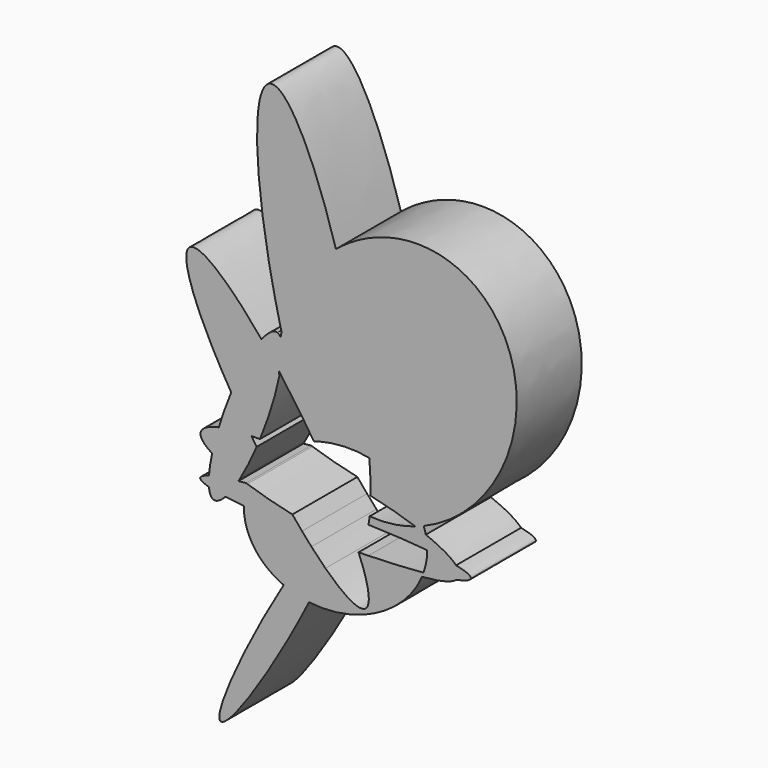
from build123d import *

# Parameters (mm, degrees)
F1_DEPTH = 25.4


with BuildPart() as f1:
    # F0 (on Front) → F1 (new body)
    with BuildSketch(Plane.XZ):
        with BuildLine():
            add(Edge.make_bspline(
                [(0, 0), (-2.0419692458, 3.2120700929), (-4.1965965873, 6.3852408232)],
                knots=[1.4417887341, 1.4417887341, 1.4417887341, 1.5975763742, 1.5975763742, 1.5975763742], degree=2, weights=[1, 0.99696781, 1]))
            add(Edge.make_bspline(
                [(17.3586450546, 1.0512714929), (8.87230184, 2.7763740784), (0, 0)],
                knots=[4.0956546377, 4.0956546377, 4.0956546377, 4.7123889804, 4.7123889804, 4.7123889804], degree=2, weights=[1, 0.9528304086, 1]))
            add(Edge.make_bspline(
                [(17.3586450546, 1.0512714929), (15.4303166317, 26.1916327111), (6.9015758323, 55.1276736975)],
                knots=[0.9115688442, 0.9115688442, 0.9115688442, 1.8731257593, 1.8731257593, 1.8731257593], degree=2, weights=[1, 0.8866351786, 1]))
            add(Edge.make_bspline(
                [(6.9015758323, 55.1276736975), (-6.7207968942, 43.9221974325), (-10.1084997618, 26.8071951101)],
                knots=[4.3544529117, 4.3544529117, 4.3544529117, 5.1646581192, 5.1646581192, 5.1646581192], degree=2, weights=[1, 0.9190619645, 1]))
            add(Edge.make_bspline(
                [(-10.1084997618, 26.8071951101), (-7.3992491307, 15.9592015291), (-4.1965965873, 6.3852408232)],
                knots=[4.8081501047, 4.8081501047, 4.8081501047, 5.1754027833, 5.1754027833, 5.1754027833], degree=2, weights=[1, 0.9831880033, 1]))
        make_face()
        with BuildLine():
            add(Edge.make_bspline(
                [(17.3586450546, 1.0512714929), (15.4303166317, 26.1916327111), (6.9015758323, 55.1276736975)],
                knots=[0.9115688442, 0.9115688442, 0.9115688442, 1.8731257593, 1.8731257593, 1.8731257593], degree=2, weights=[1, 0.8866351786, 1]))
            add(Edge.make_bspline(
                [(34.3481530709, -12.109768865), (30.4814136558, -1.616322955), (17.3586450546, 1.0512714929)],
                knots=[3.1803107646, 3.1803107646, 3.1803107646, 4.0956546377, 4.0956546377, 4.0956546377], degree=2, weights=[1, 0.8970836077, 1]))
            add(Edge.make_bspline(
                [(34.3481530709, -12.109768865), (77.0928733554, 5.6366252267), (60.708716238, 45.7738275282), (44.3245591207, 85.9110298297), (6.9015758323, 55.1276736975)],
                knots=[0.8866052756, 0.8866052756, 0.8866052756, 2.6205290936, 2.6205290936, 4.3544529117, 4.3544529117, 4.3544529117], degree=2, weights=[1, 0.6471456686, 1, 0.6471456686, 1]))
        make_face()
        with BuildLine():
            add(Edge.make_bspline(
                [(34.3481530709, -12.109768865), (30.4814136558, -1.616322955), (17.3586450546, 1.0512714929)],
                knots=[3.1803107646, 3.1803107646, 3.1803107646, 4.0956546377, 4.0956546377, 4.0956546377], degree=2, weights=[1, 0.8970836077, 1]))
            add(Edge.make_bspline(
                [(17.7426625372, -9.2078295502), (17.7936666461, -4.6202727411), (17.3586450546, 1.0512714929)],
                knots=[0.6773049146, 0.6773049146, 0.6773049146, 0.9115688442, 0.9115688442, 0.9115688442], degree=2, weights=[1, 0.993147891, 1]))
            add(Edge.make_bspline(
                [(31.7286304994, -13.0936231067), (25.5484092441, -10.9651560749), (17.7426625372, -9.2078295502)],
                knots=[4.0264719346, 4.0264719346, 4.0264719346, 4.4273357701, 4.4273357701, 4.4273357701], degree=2, weights=[1, 0.9799806776, 1]))
            add(Edge.make_bspline(
                [(31.7286304994, -13.0936231067), (33.0471510413, -12.6499079647), (34.3481530709, -12.109768865)],
                knots=[0.8149247531, 0.8149247531, 0.8149247531, 0.8866052756, 0.8866052756, 0.8866052756], degree=2, weights=[1, 0.9993578066, 1]))
        make_face()
        with BuildLine():
            add(Edge.make_bspline(
                [(-4.1965965873, 6.3852408232), (-7.3460625218, 11.0235339179), (-10.5982844988, 15.378538468)],
                knots=[1.5975763742, 1.5975763742, 1.5975763742, 1.8247738786, 1.8247738786, 1.8247738786], degree=2, weights=[1, 0.9935545975, 1]))
            add(Edge.make_bspline(
                [(-10.1084997618, 26.8071951101), (-7.3992491307, 15.9592015291), (-4.1965965873, 6.3852408232)],
                knots=[4.8081501047, 4.8081501047, 4.8081501047, 5.1754027833, 5.1754027833, 5.1754027833], degree=2, weights=[1, 0.9831880033, 1]))
            add(Edge.make_bspline(
                [(-10.1084997618, 26.8071951101), (-10.2671483449, 26.0056871339), (-10.3963750685, 25.2032869821)],
                knots=[5.1646581192, 5.1646581192, 5.1646581192, 5.2048167174, 5.2048167174, 5.2048167174], degree=2, weights=[1, 0.9997984176, 1]))
            add(Edge.make_bspline(
                [(-10.5982844988, 15.378538468), (-9.2423722214, 22.6344240275), (-10.3963750685, 25.2032869821)],
                knots=[5.4180875139, 5.4180875139, 5.4180875139, 6.0732892326, 6.0732892326, 6.0732892326], degree=2, weights=[1, 0.9468170449, 1]))
        make_face()
        with BuildLine():
            add(Edge.make_bspline(
                [(34.9964238351, -14.2943257255), (34.7427744271, -13.1806809206), (34.3481530709, -12.109768865)],
                knots=[3.0798600872, 3.0798600872, 3.0798600872, 3.1803107646, 3.1803107646, 3.1803107646], degree=2, weights=[1, 0.9987389728, 1]))
            add(Edge.make_bspline(
                [(31.7286304994, -13.0936231067), (33.0471510413, -12.6499079647), (34.3481530709, -12.109768865)],
                knots=[0.8149247531, 0.8149247531, 0.8149247531, 0.8866052756, 0.8866052756, 0.8866052756], degree=2, weights=[1, 0.9993578066, 1]))
            add(Edge.make_bspline(
                [(34.9964238351, -14.2943257255), (33.4535804002, -13.6876955263), (31.7286304994, -13.0936231067)],
                knots=[3.913186182, 3.913186182, 3.913186182, 4.0264719346, 4.0264719346, 4.0264719346], degree=2, weights=[1, 0.9983962211, 1]))
        make_face()
        with BuildLine():
            add(Edge.make_bspline(
                [(6.9015758323, 55.1276736975), (-6.7207968942, 43.9221974325), (-10.1084997618, 26.8071951101)],
                knots=[4.3544529117, 4.3544529117, 4.3544529117, 5.1646581192, 5.1646581192, 5.1646581192], degree=2, weights=[1, 0.9190619645, 1]))
            add(Edge.make_bspline(
                [(6.9015758323, 55.1276736975), (-7.8422792653, 105.1501571375), (-15.5523989474, 92.3133958805), (-23.2625186295, 79.4766346236), (-10.1084997618, 26.8071951101)],
                knots=[1.8731257593, 1.8731257593, 1.8731257593, 3.340637932, 3.340637932, 4.8081501047, 4.8081501047, 4.8081501047], degree=2, weights=[1, 0.7426643318, 1, 0.7426643318, 1]))
        make_face()
        with BuildLine():
            add(Edge.make_bspline(
                [(-10.5982844988, 15.378538468), (-10.7391049412, 15.5671091351), (-10.8799549354, 15.7549200129)],
                knots=[1.8247738786, 1.8247738786, 1.8247738786, 1.8346539331, 1.8346539331, 1.8346539331], degree=2, weights=[1, 0.9999877981, 1]))
            add(Edge.make_bspline(
                [(-10.5982844988, 15.378538468), (-9.2423722214, 22.6344240275), (-10.3963750685, 25.2032869821)],
                knots=[5.4180875139, 5.4180875139, 5.4180875139, 6.0732892326, 6.0732892326, 6.0732892326], degree=2, weights=[1, 0.9468170449, 1]))
            add(Edge.make_bspline(
                [(-10.3963750685, 25.2032869821), (-11.1674260796, 20.4156437521), (-10.8799549354, 15.7549200129)],
                knots=[5.2048167174, 5.2048167174, 5.2048167174, 5.443324233, 5.443324233, 5.443324233], degree=2, weights=[1, 0.9928976937, 1]))
        make_face()
        with BuildLine():
            add(Edge.make_bspline(
                [(-16.8353520542, -4.8721829772), (-12.5740677186, 5.5720717442), (-10.7783968723, 14.4531901174)],
                knots=[4.6076319317, 4.6076319317, 4.6076319317, 5.3753901458, 5.3753901458, 5.3753901458], degree=2, weights=[1, 0.927218812, 1]))
            add(Edge.make_bspline(
                [(-10.8799549354, 15.7549200129), (-10.8396393051, 15.1012891384), (-10.7783968723, 14.4531901174)],
                knots=[5.443324233, 5.443324233, 5.443324233, 5.4769293969, 5.4769293969, 5.4769293969], degree=2, weights=[1, 0.9998588399, 1]))
            add(Edge.make_bspline(
                [(-10.8799549354, 15.7549200129), (-13.634853925, 19.428331579), (-16.3473842546, 22.7423306624)],
                knots=[1.8346539331, 1.8346539331, 1.8346539331, 2.0273024281, 2.0273024281, 2.0273024281], degree=2, weights=[1, 0.9953644056, 1]))
            add(Edge.make_bspline(
                [(-16.3473842546, 22.7423306624), (-21.0242438786, 16.7490173833), (-25.8164739142, 5.054448316)],
                knots=[0.6084845026, 0.6084845026, 0.6084845026, 1.4589856626, 1.4589856626, 1.4589856626], degree=2, weights=[1, 0.910935385, 1]))
            add(Edge.make_bspline(
                [(-25.8164739142, 5.054448316), (-22.8313529579, 0.0924912574), (-19.5120625263, -4.8721565272)],
                knots=[4.4602498452, 4.4602498452, 4.4602498452, 4.7020507527, 4.7020507527, 4.7020507527], degree=2, weights=[1, 0.9927004381, 1]))
            add(Edge.make_bspline(
                [(-16.8353520542, -4.8721829772), (-18.2116594709, -4.8545570863), (-19.5120625263, -4.8721565272)],
                knots=[5.3177910764, 5.3177910764, 5.3177910764, 5.3986084923, 5.3986084923, 5.3986084923], degree=2, weights=[1, 0.9991836792, 1]))
        make_face()
        with BuildLine():
            add(Edge.make_bspline(
                [(44.4441439733, -19.6635569431), (42.0520320001, -17.0685184203), (34.9964238351, -14.2943257255)],
                knots=[3.4057390466, 3.4057390466, 3.4057390466, 3.913186182, 3.913186182, 3.913186182], degree=2, weights=[1, 0.9679844815, 1]))
            add(Edge.make_bspline(
                [(35.4436174447, -18.4315391388), (35.4575104597, -16.3187212406), (34.9964238351, -14.2943257255)],
                knots=[2.8976121851, 2.8976121851, 2.8976121851, 3.0798600872, 3.0798600872, 3.0798600872], degree=2, weights=[1, 0.9958510849, 1]))
            add(Edge.make_bspline(
                [(44.4441439733, -19.6635569431), (41.0059085952, -18.9639638338), (35.4436174447, -18.4315391388)],
                knots=[3.6132907881, 3.6132907881, 3.6132907881, 3.9674309518, 3.9674309518, 3.9674309518], degree=2, weights=[1, 0.9843640112, 1]))
        make_face()
        with BuildLine():
            add(Edge.make_bspline(
                [(35.4436174447, -18.4315391388), (35.4575104597, -16.3187212406), (34.9964238351, -14.2943257255)],
                knots=[2.8976121851, 2.8976121851, 2.8976121851, 3.0798600872, 3.0798600872, 3.0798600872], degree=2, weights=[1, 0.9958510849, 1]))
            add(Edge.make_bspline(
                [(34.9964238351, -14.2943257255), (33.4535804002, -13.6876955263), (31.7286304994, -13.0936231067)],
                knots=[3.913186182, 3.913186182, 3.913186182, 4.0264719346, 4.0264719346, 4.0264719346], degree=2, weights=[1, 0.9983962211, 1]))
            add(Edge.make_bspline(
                [(17.4364875247, -14.953859189), (24.519427182, -15.519700344), (31.7286304994, -13.0936231067)],
                knots=[0.4277436077, 0.4277436077, 0.4277436077, 0.8149247531, 0.8149247531, 0.8149247531], degree=2, weights=[1, 0.9813197949, 1]))
            add(Edge.make_bspline(
                [(17.0972237944, -17.4017275184), (17.2973557323, -16.2683084999), (17.4364875247, -14.953859189)],
                knots=[0.4300995875, 0.4300995875, 0.4300995875, 0.5141071314, 0.5141071314, 0.5141071314], degree=2, weights=[1, 0.9991179713, 1]))
            add(Edge.make_bspline(
                [(35.4436174447, -18.4315391388), (27.5329365652, -17.6743256559), (17.0972237944, -17.4017275184)],
                knots=[3.9674309518, 3.9674309518, 3.9674309518, 4.4658388275, 4.4658388275, 4.4658388275], degree=2, weights=[1, 0.9691090636, 1]))
        make_face()
        with BuildLine():
            add(Edge.make_bspline(
                [(-10.3963750685, 25.2032869821), (-11.1674260796, 20.4156437521), (-10.8799549354, 15.7549200129)],
                knots=[5.2048167174, 5.2048167174, 5.2048167174, 5.443324233, 5.443324233, 5.443324233], degree=2, weights=[1, 0.9928976937, 1]))
            add(Edge.make_bspline(
                [(-10.3963750685, 25.2032869821), (-10.7540570228, 25.9995033208), (-11.3445818424, 26.2250974774)],
                knots=[6.0732892326, 6.0732892326, 6.0732892326, 6.2831853072, 6.2831853072, 6.2831853072], degree=2, weights=[1, 0.9944980075, 1]))
            add(Edge.make_bspline(
                [(-11.3445818424, 26.2250974774), (-13.1048623543, 26.897565398), (-16.3473842546, 22.7423306624)],
                knots=[0, 0, 0, 0.6084845026, 0.6084845026, 0.6084845026], degree=2, weights=[1, 0.9540742255, 1]))
            add(Edge.make_bspline(
                [(-10.8799549354, 15.7549200129), (-13.634853925, 19.428331579), (-16.3473842546, 22.7423306624)],
                knots=[1.8346539331, 1.8346539331, 1.8346539331, 2.0273024281, 2.0273024281, 2.0273024281], degree=2, weights=[1, 0.9953644056, 1]))
        make_face()
        with BuildLine():
            add(Edge.make_bspline(
                [(44.4441439733, -19.6635569431), (41.0059085952, -18.9639638338), (35.4436174447, -18.4315391388)],
                knots=[3.6132907881, 3.6132907881, 3.6132907881, 3.9674309518, 3.9674309518, 3.9674309518], degree=2, weights=[1, 0.9843640112, 1]))
            add(Edge.make_bspline(
                [(34.2693182662, -24.9924245919), (35.4220394417, -21.7130724045), (35.4436174447, -18.4315391388)],
                knots=[2.6156499376, 2.6156499376, 2.6156499376, 2.8976121851, 2.8976121851, 2.8976121851], degree=2, weights=[1, 0.9900786106, 1]))
            add(Edge.make_bspline(
                [(34.2693182662, -24.9924245919), (40.6903214961, -24.4221223889), (44.5060968032, -23.6394655455)],
                knots=[2.278603824, 2.278603824, 2.278603824, 2.6731291375, 2.6731291375, 2.6731291375], degree=2, weights=[1, 0.9806067315, 1]))
            add(Edge.make_bspline(
                [(44.5060968032, -23.6394655455), (46.5708280281, -21.9706508876), (44.4441439733, -19.6635569431)],
                knots=[2.9525787792, 2.9525787792, 2.9525787792, 3.4057390466, 3.4057390466, 3.4057390466], degree=2, weights=[1, 0.9744403524, 1]))
        make_face()
        with BuildLine():
            add(Edge.make_bspline(
                [(44.5060968032, -23.6394655455), (54.2061589671, -21.6498777361), (44.4441439733, -19.6635569431)],
                knots=[2.6731291375, 2.6731291375, 2.6731291375, 3.6132907881, 3.6132907881, 3.6132907881], degree=2, weights=[1, 0.8915316806, 1]))
            add(Edge.make_bspline(
                [(44.5060968032, -23.6394655455), (46.5708280281, -21.9706508876), (44.4441439733, -19.6635569431)],
                knots=[2.9525787792, 2.9525787792, 2.9525787792, 3.4057390466, 3.4057390466, 3.4057390466], degree=2, weights=[1, 0.9744403524, 1]))
        make_face()
        with BuildLine():
            add(Edge.make_bspline(
                [(-16.3473842546, 22.7423306624), (-21.0242438786, 16.7490173833), (-25.8164739142, 5.054448316)],
                knots=[0.6084845026, 0.6084845026, 0.6084845026, 1.4589856626, 1.4589856626, 1.4589856626], degree=2, weights=[1, 0.910935385, 1]))
            add(Edge.make_bspline(
                [(-16.3473842546, 22.7423306624), (-92.2344269544, 115.456350189), (-25.8164739142, 5.054448316)],
                knots=[2.0273024281, 2.0273024281, 2.0273024281, 4.4602498452, 4.4602498452, 4.4602498452], degree=2, weights=[1, 0.3469551409, 1]))
        make_face()
        with BuildLine():
            add(Edge.make_bspline(
                [(-23.0388032278, -17.7057134343), (-20.4002747943, -13.1839104368), (-17.8603604999, -7.3118968233)],
                knots=[4.0557463312, 4.0557463312, 4.0557463312, 4.512278861, 4.512278861, 4.512278861], degree=2, weights=[1, 0.9740601841, 1]))
            add(Edge.make_bspline(
                [(-19.5120625263, -4.8721565272), (-18.692812925, -6.097504475), (-17.8603604999, -7.3118968233)],
                knots=[4.7020507527, 4.7020507527, 4.7020507527, 4.7620052899, 4.7620052899, 4.7620052899], degree=2, weights=[1, 0.9995507153, 1]))
            add(Edge.make_bspline(
                [(-19.5120625263, -4.8721565272), (-25.7143836344, -4.9560977202), (-29.7111985608, -5.8066144971)],
                knots=[5.3986084923, 5.3986084923, 5.3986084923, 5.7796035474, 5.7796035474, 5.7796035474], degree=2, weights=[1, 0.9819101511, 1]))
            add(Edge.make_bspline(
                [(-29.7111985608, -5.8066144971), (-30.9982211567, -9.9976236259), (-31.7846885344, -13.669241013)],
                knots=[1.8747922047, 1.8747922047, 1.8747922047, 2.198544222, 2.198544222, 2.198544222], degree=2, weights=[1, 0.986926664, 1]))
            add(Edge.make_bspline(
                [(-31.7846885344, -13.669241013), (-28.5899223543, -15.6889539958), (-23.0388032278, -17.7057134343)],
                knots=[0.4614090078, 0.4614090078, 0.4614090078, 0.837954145, 0.837954145, 0.837954145], degree=2, weights=[1, 0.9823290106, 1]))
        make_face()
        with BuildLine():
            add(Edge.make_bspline(
                [(-19.5120625263, -4.8721565272), (-25.7143836344, -4.9560977202), (-29.7111985608, -5.8066144971)],
                knots=[5.3986084923, 5.3986084923, 5.3986084923, 5.7796035474, 5.7796035474, 5.7796035474], degree=2, weights=[1, 0.9819101511, 1]))
            add(Edge.make_bspline(
                [(-25.8164739142, 5.054448316), (-22.8313529579, 0.0924912574), (-19.5120625263, -4.8721565272)],
                knots=[4.4602498452, 4.4602498452, 4.4602498452, 4.7020507527, 4.7020507527, 4.7020507527], degree=2, weights=[1, 0.9927004381, 1]))
            add(Edge.make_bspline(
                [(-25.8164739142, 5.054448316), (-28.0486688583, -0.3928189795), (-29.7111985608, -5.8066144971)],
                knots=[1.4589856626, 1.4589856626, 1.4589856626, 1.8747922047, 1.8747922047, 1.8747922047], degree=2, weights=[1, 0.9784658485, 1]))
        make_face()
        with BuildLine():
            add(Edge.make_bspline(
                [(34.2693182662, -24.9924245919), (40.6903214961, -24.4221223889), (44.5060968032, -23.6394655455)],
                knots=[2.278603824, 2.278603824, 2.278603824, 2.6731291375, 2.6731291375, 2.6731291375], degree=2, weights=[1, 0.9806067315, 1]))
            add(Edge.make_bspline(
                [(33.7803264966, -26.2598079569), (34.0455109476, -25.6291293177), (34.2693182662, -24.9924245919)],
                knots=[2.5605537164, 2.5605537164, 2.5605537164, 2.6156499376, 2.6156499376, 2.6156499376], degree=2, weights=[1, 0.9996205748, 1]))
            add(Edge.make_bspline(
                [(33.7803264966, -26.2598079569), (41.9408016183, -25.7128599684), (44.5060968032, -23.6394655455)],
                knots=[2.3946569283, 2.3946569283, 2.3946569283, 2.9525787792, 2.9525787792, 2.9525787792], degree=2, weights=[1, 0.9613420736, 1]))
        make_face()
        with BuildLine():
            add(Edge.make_bspline(
                [(33.7803264966, -26.2598079569), (34.0455109476, -25.6291293177), (34.2693182662, -24.9924245919)],
                knots=[2.5605537164, 2.5605537164, 2.5605537164, 2.6156499376, 2.6156499376, 2.6156499376], degree=2, weights=[1, 0.9996205748, 1]))
            add(Edge.make_bspline(
                [(17.0538843812, -25.9150808869), (26.7077216575, -25.6640322909), (34.2693182662, -24.9924245919)],
                knots=[1.8162897084, 1.8162897084, 1.8162897084, 2.278603824, 2.278603824, 2.278603824], degree=2, weights=[1, 0.9734019601, 1]))
            add(Edge.make_bspline(
                [(17.0538843812, -25.9150808869), (26.6818415222, -26.7355770783), (33.7803264966, -26.2598079569)],
                knots=[1.906292002, 1.906292002, 1.906292002, 2.3946569283, 2.3946569283, 2.3946569283], degree=2, weights=[1, 0.9703352995, 1]))
        make_face()
        with BuildLine():
            add(Edge.make_bspline(
                [(-20.7739513892, -18.4939974229), (-14.5008973547, -20.5878580004), (-6.7053052662, -22.2968065034)],
                knots=[0.9130442864, 0.9130442864, 0.9130442864, 1.3103694753, 1.3103694753, 1.3103694753], degree=2, weights=[1, 0.9803314027, 1]))
            add(Edge.make_bspline(
                [(-20.7739513892, -18.4939974229), (-21.8680090391, -21.6896646453), (-21.8890145833, -24.8841396962)],
                knots=[5.7646280853, 5.7646280853, 5.7646280853, 6.0392048387, 6.0392048387, 6.0392048387], degree=2, weights=[1, 0.9905907436, 1]))
            add(Edge.make_bspline(
                [(-21.8890145833, -24.8841396962), (-14.0365313601, -25.6357824765), (-3.6868290749, -25.9101563494)],
                knots=[0.8258382982, 0.8258382982, 0.8258382982, 1.3207278271, 1.3207278271, 1.3207278271], degree=2, weights=[1, 0.9695414333, 1]))
            add(Edge.make_bspline(
                [(-6.7053052662, -22.2968065034), (-5.1779479937, -24.174512442), (-3.6868290749, -25.9101563494)],
                knots=[5.1559604442, 5.1559604442, 5.1559604442, 5.2644250528, 5.2644250528, 5.2644250528], degree=2, weights=[1, 0.998529789, 1]))
        make_face()
        with BuildLine():
            add(Edge.make_bspline(
                [(-20.7739513892, -18.4939974229), (-21.8680090391, -21.6896646453), (-21.8890145833, -24.8841396962)],
                knots=[5.7646280853, 5.7646280853, 5.7646280853, 6.0392048387, 6.0392048387, 6.0392048387], degree=2, weights=[1, 0.9905907436, 1]))
            add(Edge.make_bspline(
                [(-21.1620600226, -18.3635533745), (-20.9690251753, -18.428884432), (-20.7739513892, -18.4939974229)],
                knots=[0.900523635, 0.900523635, 0.900523635, 0.9130442864, 0.9130442864, 0.9130442864], degree=2, weights=[1, 0.9999804042, 1]))
            add(Edge.make_bspline(
                [(-21.1620600226, -18.3635533745), (-22.4118456022, -18.4777433695), (-23.571252853, -18.6017798929)],
                knots=[5.4342050608, 5.4342050608, 5.4342050608, 5.5129184426, 5.5129184426, 5.5129184426], degree=2, weights=[1, 0.9992256254, 1]))
            add(Edge.make_bspline(
                [(-27.6228268304, -24.2099699298), (-25.7563008525, -22.211078321), (-23.571252853, -18.6017798929)],
                knots=[3.625544764, 3.625544764, 3.625544764, 4.0086848584, 4.0086848584, 4.0086848584], degree=2, weights=[1, 0.9817065075, 1]))
            add(Edge.make_bspline(
                [(-27.6228268304, -24.2099699298), (-25.0904027664, -24.5777015611), (-21.8890145833, -24.8841396962)],
                knots=[0.6205786005, 0.6205786005, 0.6205786005, 0.8258382982, 0.8258382982, 0.8258382982], degree=2, weights=[1, 0.994738178, 1]))
        make_face()
        with BuildLine():
            add(Edge.make_bspline(
                [(-23.571252853, -18.6017798929), (-23.306103632, -18.163802024), (-23.0388032278, -17.7057134343)],
                knots=[4.0086848584, 4.0086848584, 4.0086848584, 4.0557463312, 4.0557463312, 4.0557463312], degree=2, weights=[1, 0.999723165, 1]))
            add(Edge.make_bspline(
                [(-31.7846885344, -13.669241013), (-28.5899223543, -15.6889539958), (-23.0388032278, -17.7057134343)],
                knots=[0.4614090078, 0.4614090078, 0.4614090078, 0.837954145, 0.837954145, 0.837954145], degree=2, weights=[1, 0.9823290106, 1]))
            add(Edge.make_bspline(
                [(-31.7846885344, -13.669241013), (-32.5703160551, -17.3369375339), (-32.7749262631, -20.1058265828)],
                knots=[2.198544222, 2.198544222, 2.198544222, 2.5219565079, 2.5219565079, 2.5219565079], degree=2, weights=[1, 0.986954027, 1]))
            add(Edge.make_bspline(
                [(-23.571252853, -18.6017798929), (-29.6751009685, -19.2547860728), (-32.7749262631, -20.1058265828)],
                knots=[5.5129184426, 5.5129184426, 5.5129184426, 5.9217384523, 5.9217384523, 5.9217384523], degree=2, weights=[1, 0.9791809177, 1]))
        make_face()
        with BuildLine():
            add(Edge.make_bspline(
                [(-29.7111985608, -5.8066144971), (-30.9982211567, -9.9976236259), (-31.7846885344, -13.669241013)],
                knots=[1.8747922047, 1.8747922047, 1.8747922047, 2.198544222, 2.198544222, 2.198544222], degree=2, weights=[1, 0.986926664, 1]))
            add(Edge.make_bspline(
                [(-29.7111985608, -5.8066144971), (-35.0431043159, -6.9412367852), (-35.3986231766, -9.1565694147)],
                knots=[5.7796035474, 5.7796035474, 5.7796035474, 6.2831853072, 6.2831853072, 6.2831853072], degree=2, weights=[1, 0.9684677974, 1]))
            add(Edge.make_bspline(
                [(-35.3986231766, -9.1565694147), (-35.7232353351, -11.1793141581), (-31.7846885344, -13.669241013)],
                knots=[0, 0, 0, 0.4614090078, 0.4614090078, 0.4614090078], degree=2, weights=[1, 0.9735055423, 1]))
        make_face()
        with BuildLine():
            add(Edge.make_bspline(
                [(-1.5104979003, -44.743930426), (24.6175207559, -48.0513792028), (33.7803264966, -26.2598079569)],
                knots=[1.0388239169, 1.0388239169, 1.0388239169, 2.5605537164, 2.5605537164, 2.5605537164], degree=2, weights=[1, 0.7242398917, 1]))
            add(Edge.make_bspline(
                [(17.0538843812, -25.9150808869), (26.6818415222, -26.7355770783), (33.7803264966, -26.2598079569)],
                knots=[1.906292002, 1.906292002, 1.906292002, 2.3946569283, 2.3946569283, 2.3946569283], degree=2, weights=[1, 0.9703352995, 1]))
            add(Edge.make_bspline(
                [(13.9706182119, -25.98269624), (15.5243972849, -25.9548552872), (17.0538843812, -25.9150808869)],
                knots=[1.7417453053, 1.7417453053, 1.7417453053, 1.8162897084, 1.8162897084, 1.8162897084], degree=2, weights=[1, 0.9993054719, 1]))
            add(Edge.make_bspline(
                [(16.0592347383, -40.8111065626), (19.2014715106, -38.7011593592), (13.9706182119, -25.98269624)],
                knots=[0, 0, 0, 0.7584741556, 0.7584741556, 0.7584741556], degree=2, weights=[1, 0.9289473487, 1]))
            add(Edge.make_bspline(
                [(3.6266056857, -33.7569650345), (13.0105761168, -42.8582179673), (16.0592347383, -40.8111065626)],
                knots=[5.545278009, 5.545278009, 5.545278009, 6.2831853072, 6.2831853072, 6.2831853072], degree=2, weights=[1, 0.9327052118, 1]))
            add(Edge.make_bspline(
                [(-1.5104979003, -44.743930426), (1.5223146331, -38.6890097643), (3.6266056857, -33.7569650345)],
                knots=[5.0665742006, 5.0665742006, 5.0665742006, 5.4510357716, 5.4510357716, 5.4510357716], degree=2, weights=[1, 0.9815804884, 1]))
        make_face()
        with BuildLine():
            add(Edge.make_bspline(
                [(-21.8890145833, -24.8841396962), (-14.0365313601, -25.6357824765), (-3.6868290749, -25.9101563494)],
                knots=[0.8258382982, 0.8258382982, 0.8258382982, 1.3207278271, 1.3207278271, 1.3207278271], degree=2, weights=[1, 0.9695414333, 1]))
            add(Edge.make_bspline(
                [(-21.8890145833, -24.8841396962), (-21.9696048638, -37.1401249709), (-9.4397222006, -42.6044596563)],
                knots=[6.0392048387, 6.0392048387, 6.0392048387, 7.0140120075, 7.0140120075, 7.0140120075], degree=2, weights=[1, 0.8835518236, 1]))
            add(Edge.make_bspline(
                [(-0.7479524071, -29.2303670475), (-4.6791344801, -34.683949446), (-9.4397222006, -42.6044596563)],
                knots=[0.7628706142, 0.7628706142, 0.7628706142, 1.2728517826, 1.2728517826, 1.2728517826], degree=2, weights=[1, 0.9676656707, 1]))
            add(Edge.make_bspline(
                [(-3.6868290749, -25.9101563494), (-2.1902980411, -27.6520998914), (-0.7479524071, -29.2303670475)],
                knots=[5.2644250528, 5.2644250528, 5.2644250528, 5.3732825653, 5.3732825653, 5.3732825653], degree=2, weights=[1, 0.9985191209, 1]))
        make_face()
        with BuildLine():
            add(Edge.make_bspline(
                [(-27.6228268304, -24.2099699298), (-25.7563008525, -22.211078321), (-23.571252853, -18.6017798929)],
                knots=[3.625544764, 3.625544764, 3.625544764, 4.0086848584, 4.0086848584, 4.0086848584], degree=2, weights=[1, 0.9817065075, 1]))
            add(Edge.make_bspline(
                [(-23.571252853, -18.6017798929), (-29.6751009685, -19.2547860728), (-32.7749262631, -20.1058265828)],
                knots=[5.5129184426, 5.5129184426, 5.5129184426, 5.9217384523, 5.9217384523, 5.9217384523], degree=2, weights=[1, 0.9791809177, 1]))
            add(Edge.make_bspline(
                [(-32.7749262631, -20.1058265828), (-32.9073465941, -21.897805623), (-32.7852574403, -23.2070129148)],
                knots=[2.5219565079, 2.5219565079, 2.5219565079, 2.7323279385, 2.7323279385, 2.7323279385], degree=2, weights=[1, 0.9944730813, 1]))
            add(Edge.make_bspline(
                [(-32.7852574403, -23.2070129148), (-30.8352677141, -23.7434935037), (-27.6228268304, -24.2099699298)],
                knots=[0.3607553096, 0.3607553096, 0.3607553096, 0.6205786005, 0.6205786005, 0.6205786005], degree=2, weights=[1, 0.9915733436, 1]))
        make_face()
        with BuildLine():
            add(Edge.make_bspline(
                [(-9.4397222006, -42.6044596563), (-34.8942230987, -84.95482606), (-29.0611855319, -86.5287017508), (-23.2281479651, -88.1025774415), (-1.5104979003, -44.743930426)],
                knots=[1.2728517826, 1.2728517826, 1.2728517826, 3.1697129916, 3.1697129916, 5.0665742006, 5.0665742006, 5.0665742006], degree=2, weights=[1, 0.5829589432, 1, 0.5829589432, 1]))
            add(Edge.make_bspline(
                [(-9.4397222006, -42.6044596563), (-5.7703395689, -44.2046929009), (-1.5104979003, -44.743930426)],
                knots=[0.7308267003, 0.7308267003, 0.7308267003, 1.0388239169, 1.0388239169, 1.0388239169], degree=2, weights=[1, 0.9881656303, 1]))
        make_face()
        with BuildLine():
            add(Edge.make_bspline(
                [(-9.4397222006, -42.6044596563), (-5.7703395689, -44.2046929009), (-1.5104979003, -44.743930426)],
                knots=[0.7308267003, 0.7308267003, 0.7308267003, 1.0388239169, 1.0388239169, 1.0388239169], degree=2, weights=[1, 0.9881656303, 1]))
            add(Edge.make_bspline(
                [(-1.5104979003, -44.743930426), (1.5223146331, -38.6890097643), (3.6266056857, -33.7569650345)],
                knots=[5.0665742006, 5.0665742006, 5.0665742006, 5.4510357716, 5.4510357716, 5.4510357716], degree=2, weights=[1, 0.9815804884, 1]))
            add(Edge.make_bspline(
                [(-0.7479524071, -29.2303670475), (1.5343395223, -31.7277340501), (3.6266056857, -33.7569650345)],
                knots=[5.3732825653, 5.3732825653, 5.3732825653, 5.545278009, 5.545278009, 5.545278009], degree=2, weights=[1, 0.9963044743, 1]))
            add(Edge.make_bspline(
                [(-0.7479524071, -29.2303670475), (-4.6791344801, -34.683949446), (-9.4397222006, -42.6044596563)],
                knots=[0.7628706142, 0.7628706142, 0.7628706142, 1.2728517826, 1.2728517826, 1.2728517826], degree=2, weights=[1, 0.9676656707, 1]))
        make_face()
        with BuildLine():
            add(Edge.make_bspline(
                [(-32.7852574403, -23.2070129148), (-32.2314737091, -29.1454413254), (-27.6228268304, -24.2099699298)],
                knots=[2.7323279385, 2.7323279385, 2.7323279385, 3.625544764, 3.625544764, 3.625544764], degree=2, weights=[1, 0.9019171442, 1]))
            add(Edge.make_bspline(
                [(-32.7852574403, -23.2070129148), (-30.8352677141, -23.7434935037), (-27.6228268304, -24.2099699298)],
                knots=[0.3607553096, 0.3607553096, 0.3607553096, 0.6205786005, 0.6205786005, 0.6205786005], degree=2, weights=[1, 0.9915733436, 1]))
        make_face()
        with BuildLine():
            add(Edge.make_bspline(
                [(-32.7749262631, -20.1058265828), (-32.9073465941, -21.897805623), (-32.7852574403, -23.2070129148)],
                knots=[2.5219565079, 2.5219565079, 2.5219565079, 2.7323279385, 2.7323279385, 2.7323279385], degree=2, weights=[1, 0.9944730813, 1]))
            add(Edge.make_bspline(
                [(-32.7749262631, -20.1058265828), (-35.5070829391, -20.8559256335), (-35.5070829391, -21.6578394175)],
                knots=[5.9217384523, 5.9217384523, 5.9217384523, 6.2831853072, 6.2831853072, 6.2831853072], degree=2, weights=[1, 0.9837139204, 1]))
            add(Edge.make_bspline(
                [(-35.5070829391, -21.6578394175), (-35.5070829391, -22.4581850996), (-32.7852574403, -23.2070129148)],
                knots=[0, 0, 0, 0.3607553096, 0.3607553096, 0.3607553096], degree=2, weights=[1, 0.9837760113, 1]))
        make_face()
    extrude(amount=F1_DEPTH)


solid = f1.part
